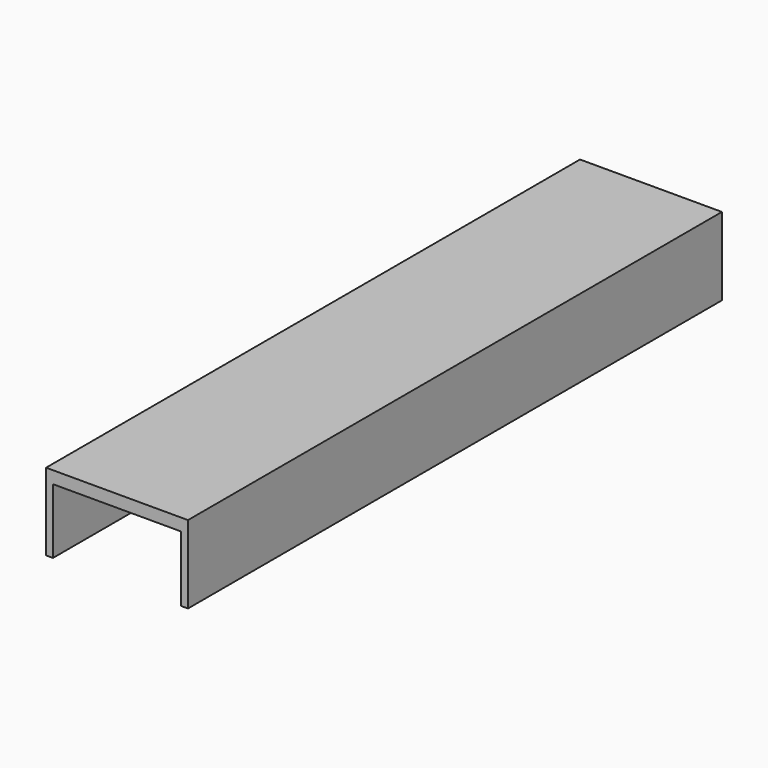
from build123d import *

# Parameters (mm, degrees)
F0_W     = 7.3374137282
F0_H     = 69.2269303836
F0_W_2   = 7.3374211788
F0_H_2   = 69.8649683036
F1_DEPTH = 711.2


with BuildPart() as f1:
    # F0 (on Front) → F1 (new body)
    with BuildSketch(Plane.XZ):
        Polygon((75.6072923541, 6.5398714505), (-75.6072923541, 6.5398714505), (-75.6072923541, -6.5398714505), (-68.2698786259, -6.5398714505), (68.2698711753, -6.5398714505), (75.6072923541, -6.5398714505), align=None)
        with Locations((-71.93858549, -41.1533366423)):
            Rectangle(F0_W, F0_H)
        with Locations((71.9385817647, -41.4723556023)):
            Rectangle(F0_W_2, F0_H_2)
    extrude(amount=F1_DEPTH)


solid = f1.part
